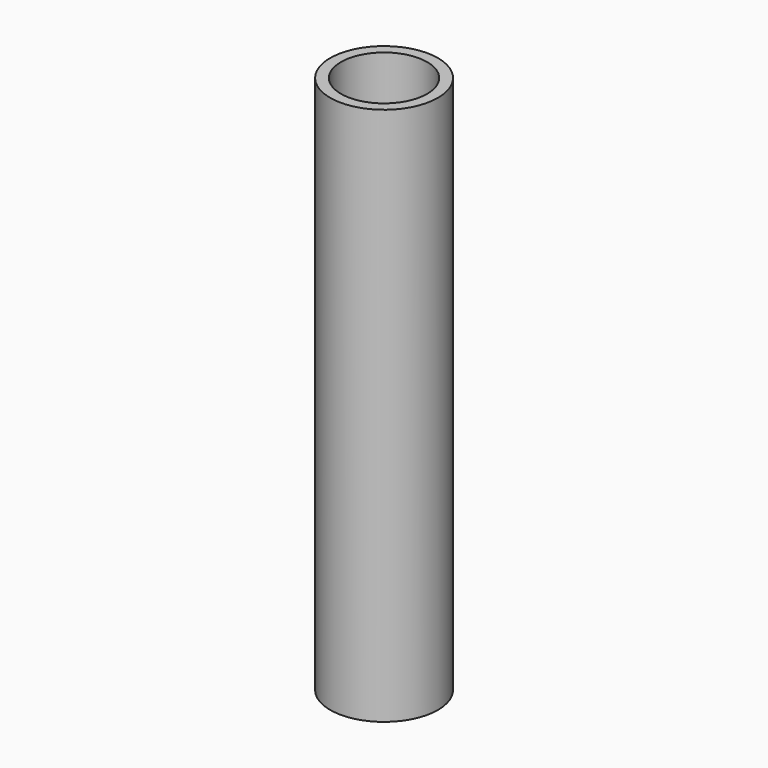
from build123d import *

# Parameters (mm, degrees)
SKETCH_R   = 5
SKETCH_R_2 = 4
PAD_DEPTH  = 50


with BuildPart() as part:
    # Sketch → Pad (new body)
    with BuildSketch(Plane.XY):
        Circle(SKETCH_R)
        Circle(SKETCH_R_2, mode=Mode.SUBTRACT)
    extrude(amount=PAD_DEPTH)


solid = part.part
